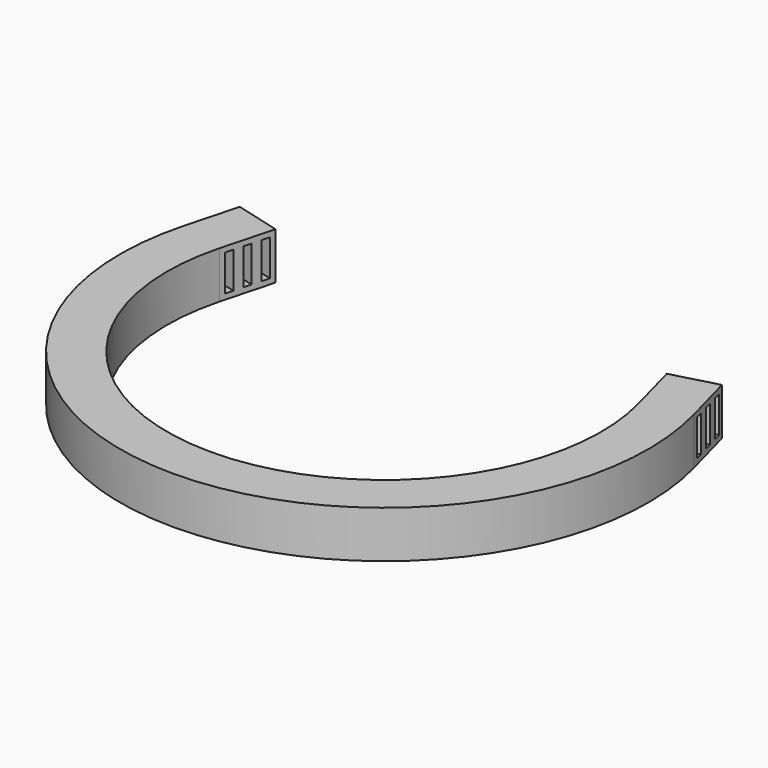
from build123d import *

# Parameters (mm, degrees)
F1_DEPTH = 13
F2_W     = 2.2
F2_H     = 3.9
F3_DEPTH = 25
F4_W     = 2.2
F4_H     = 10
F5_DEPTH = 25


with BuildPart() as f1:
    # F0 (on Top) → F1 (new body)
    with BuildSketch(Plane.XY):
        with BuildLine():
            ThreePointArc((57.95555, 15.529143), (0, -60), (-57.95555, 15.529143))
            Line((-57.95555, 15.529143), (-54.073264, 30.01803))
            Line((-54.073264, 30.01803), (-66.6303, 33.382678))
            Line((-66.6303, 33.382678), (-70.512585, 18.89379))
            ThreePointArc((-70.512585, 18.89379), (0, -73), (70.512585, 18.89379))
            Line((70.512585, 18.89379), (66.6303, 33.382678))
            Line((66.6303, 33.382678), (54.073264, 30.01803))
            Line((54.073264, 30.01803), (57.95555, 15.529143))
        make_face()
    extrude(amount=F1_DEPTH)

    # F2 (on face) → F3 (cut)
    with BuildSketch(Plane(origin=(70.512585, 18.89379, 0), x_dir=(-0.258819, 0.965926, 0), z_dir=(0.965926, 0.258819, 0))):
        Polygon((1.5, 11.5), (1.5, 7.6), (1.5, 1.5), (3.7, 1.5), (3.7, 7.6), (3.7, 11.5), align=None)
        Polygon((8.6, 11.5), (6.4, 11.5), (6.4, 7.6), (6.4, 1.5), (8.6, 1.5), (8.6, 7.6), align=None)
        Polygon((13.5, 11.5), (11.3, 11.5), (11.3, 7.6), (11.3, 1.5), (13.5, 1.5), (13.5, 7.6), align=None)
        with Locations((542.279418, 3.45)):
            Rectangle(F2_W, F2_H)
    extrude(amount=-F3_DEPTH, mode=Mode.SUBTRACT)

    # F4 (on face) → F5 (cut)
    with BuildSketch(Plane(origin=(-70.512585, 18.89379, 0), x_dir=(-0.258819, -0.965926, 0), z_dir=(-0.965926, 0.258819, 0))):
        with Locations((-2.6, 6.5)):
            Rectangle(F4_W, F4_H)
        with Locations((-7.5, 6.5)):
            Rectangle(F4_W, F4_H)
        with Locations((-12.4, 6.5)):
            Rectangle(F4_W, F4_H)
    extrude(amount=-F5_DEPTH, mode=Mode.SUBTRACT)


solid = f1.part
